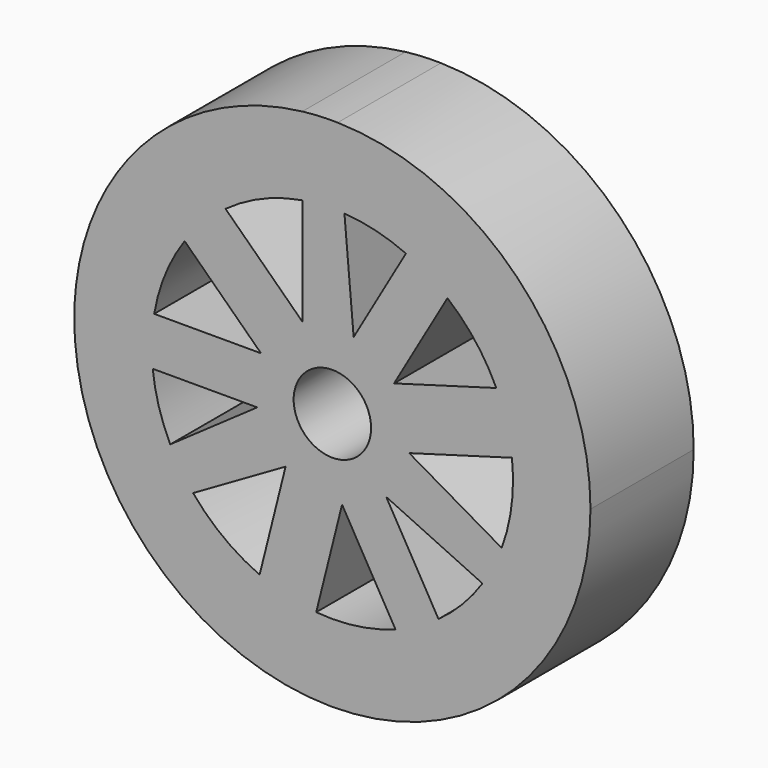
from build123d import *

# Parameters (mm, degrees)
F0_R     = 4.5
F1_DEPTH = 7.5


with BuildPart() as f1:
    # F0 (on Front) → F1 (new body, symmetric)
    with BuildSketch(Plane.XZ):
        with BuildLine():
            ThreePointArc((-29.920215, -2.18649), (1.093972, -29.980047), (30, 0))
            ThreePointArc((30, 0), (21.430167, 20.993997), (0.616805, 29.993659))
            ThreePointArc((0.616805, 29.993659), (-1.441951, 29.965326), (-3.493914, 29.795848))
            ThreePointArc((-3.493914, 29.795848), (-11.688943, 27.629126), (-18.950763, 23.256582))
            ThreePointArc((-18.950763, 23.256582), (-21.461585, 20.961879), (-23.696509, 18.397703))
            ThreePointArc((-23.696509, 18.397703), (-27.765689, 11.360745), (-29.796343, 3.489695))
            ThreePointArc((-29.796343, 3.489695), (-29.992859, 0.654539), (-29.920215, -2.18649))
        make_face()
        with BuildLine():
            ThreePointArc((-8.455649, -19.222435), (-12.662502, -16.752941), (-16.186097, -13.379472))
            Line((-16.186097, -13.379472), (-5.435969, -7.172883))
            Line((-5.435969, -7.172883), (-8.455649, -19.222435))
        make_face(mode=Mode.SUBTRACT)
        with BuildLine():
            Line((-20.885863, -2.18649), (-8.730364, -2.18649))
            Line((-8.730364, -2.18649), (-18.847223, -9.261867))
            ThreePointArc((-18.847223, -9.261867), (-20.179068, -5.814227), (-20.885863, -2.18649))
        make_face(mode=Mode.SUBTRACT)
        with BuildLine():
            Line((-1.8781, -20.915849), (1.125788, -8.929311))
            Line((1.125788, -8.929311), (7.331845, -19.678517))
            ThreePointArc((7.331845, -19.678517), (2.796173, -20.813011), (-1.8781, -20.915849))
        make_face(mode=Mode.SUBTRACT)
        with BuildLine():
            Line((12.336487, -16.994443), (6.258738, -6.467473))
            Line((6.258738, -6.467473), (17.444624, -11.69124))
            ThreePointArc((17.444624, -11.69124), (15.124802, -14.568472), (12.336487, -16.994443))
        make_face(mode=Mode.SUBTRACT)
        with BuildLine():
            ThreePointArc((20.874941, 2.288411), (20.839724, -2.589578), (19.680011, -7.327835))
            Line((19.680011, -7.327835), (8.929883, -1.121246))
            Line((8.929883, -1.121246), (20.874941, 2.288411))
        make_face(mode=Mode.SUBTRACT)
        with BuildLine():
            Line((-17.174607, 12.084407), (-8.295904, 3.489695))
            Line((-8.295904, 3.489695), (-20.708019, 3.489695))
            ThreePointArc((-20.708019, 3.489695), (-19.422682, 7.984949), (-17.174607, 12.084407))
        make_face(mode=Mode.SUBTRACT)
        with BuildLine():
            ThreePointArc((-12.419293, 16.934024), (-8.177222, 19.342519), (-3.493914, 20.707307))
            Line((-3.493914, 20.707307), (-3.493914, 8.294128))
            Line((-3.493914, 8.294128), (-12.419293, 16.934024))
        make_face(mode=Mode.SUBTRACT)
        Circle(F0_R, mode=Mode.SUBTRACT)
        with BuildLine():
            Line((2.471627, 8.653962), (1.402599, 20.953108))
            ThreePointArc((1.402599, 20.953108), (5.054266, 20.382699), (8.549376, 19.180933))
            Line((8.549376, 19.180933), (2.471627, 8.653962))
        make_face(mode=Mode.SUBTRACT)
        with BuildLine():
            Line((19.052707, 8.831442), (7.170116, 5.439617))
            Line((7.170116, 5.439617), (13.376173, 16.188823))
            ThreePointArc((13.376173, 16.188823), (16.62651, 12.828062), (19.052707, 8.831442))
        make_face(mode=Mode.SUBTRACT)
    extrude(amount=F1_DEPTH, both=True)


solid = f1.part
